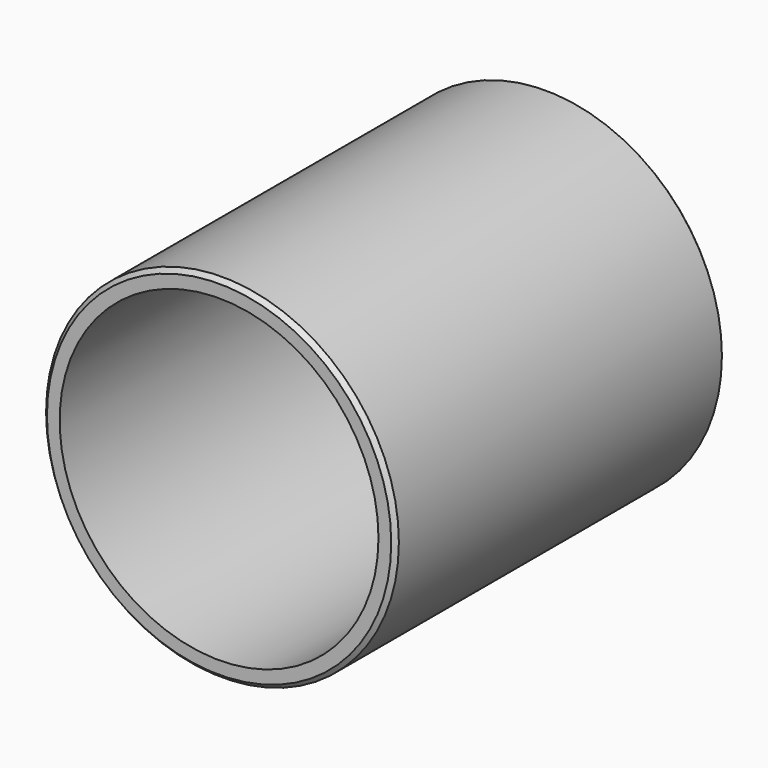
from build123d import *

# Parameters (mm, degrees)
F0_R     = 41.5
F0_R_2   = 37.5
F1_DEPTH = 97
F2_DEPTH = 8
F3_SIZE  = 1


with BuildPart() as f1:
    # F0 (on Front) → F1 (new body)
    with BuildSketch(Plane.XZ):
        Circle(F0_R)
        Circle(F0_R_2, mode=Mode.SUBTRACT)
    extrude(amount=F1_DEPTH)

    # F0 (on Front) → F2 (join)
    with BuildSketch(Plane.XZ):
        Circle(F0_R_2)
    extrude(amount=F2_DEPTH)

    # F3
    f3_edges = [f1.edges().sort_by_distance(p)[0] for p in [
        (41.5, -48.5, 0),
        (-41.5, 0, 0),
        (-41.5, -97, 0),
    ]]
    chamfer(f3_edges, length=F3_SIZE)


solid = f1.part
